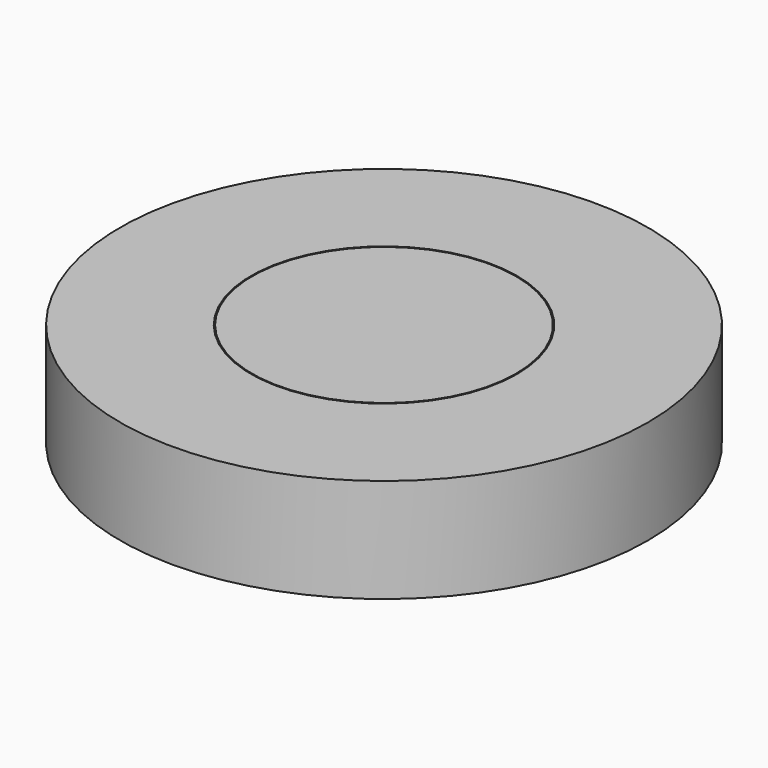
from build123d import *

# Parameters (mm, degrees)
F0_R     = 6.35
F1_DEPTH = 2.5
F2_R     = 3.2
F2_R_2   = 3.175
F3_DEPTH = 0.5


with BuildPart() as f1:
    # F0 (on Top) → F1 (new body)
    with BuildSketch(Plane.XY):
        Circle(F0_R)
    extrude(amount=F1_DEPTH)

    # F2 (on face) → F3 (cut)
    with BuildSketch(Plane.XY.offset(2.5)):
        Circle(F2_R)
        Circle(F2_R_2, mode=Mode.SUBTRACT)
    extrude(amount=-F3_DEPTH, mode=Mode.SUBTRACT)

    # F4 (on Front) → F5 (revolve)
    with BuildSketch(Plane.XZ):
        Polygon((0, 0), (-6.35, 0), (-4.5, -0.5), (0, -0.5), align=None)
    revolve(axis=Axis((0, 0, -0.25), (0, 0, -1)))


solid = f1.part
